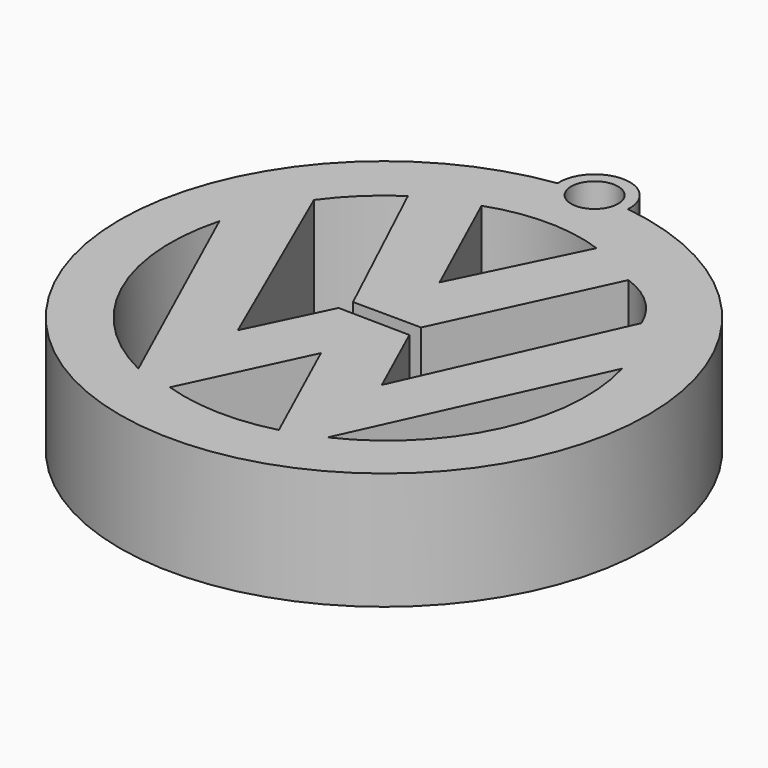
from build123d import *

# Parameters (mm, degrees)
F0_R     = 2
F1_DEPTH = 10


with BuildPart() as f1:
    # F0 (on Top) → F1 (new body)
    with BuildSketch(Plane.XY):
        with BuildLine():
            ThreePointArc((2.993815, 22.500718), (-0.007472, 25.693253), (-2.992818, 22.485807))
            ThreePointArc((-2.992818, 22.485807), (0.112082, -22.306598), (2.993815, 22.500718))
        make_face()
        with BuildLine():
            ThreePointArc((4.73323, -16.847746), (-0.037027, -17.396128), (-4.767835, -16.57422))
            Line((-4.767835, -16.57422), (0, -6.451098))
            Line((0, -6.451098), (4.73323, -16.847746))
        make_face(mode=Mode.SUBTRACT)
        with BuildLine():
            ThreePointArc((-8.082343, -15.787), (-16.20146, -7.439435), (-17.145447, 4.167062))
            Line((-17.145447, 4.167062), (-8.082343, -15.787))
        make_face(mode=Mode.SUBTRACT)
        with BuildLine():
            ThreePointArc((17.03636, 4.312176), (16.15052, -7.343834), (7.934009, -15.658654))
            Line((7.934009, -15.658654), (17.03636, 4.312176))
        make_face(mode=Mode.SUBTRACT)
        with BuildLine():
            ThreePointArc((-14.148536, 10.488077), (-12.081026, 12.866727), (-9.620003, 14.835468))
            Line((-9.620003, 14.835468), (-2.931775, 0.630309))
            Line((-2.931775, 0.630309), (2.896172, 0.597561))
            Line((2.896172, 0.597561), (9.397594, 14.539215))
            ThreePointArc((9.397594, 14.539215), (12.137775, 12.880766), (13.956957, 10.244554))
            Line((13.956957, 10.244554), (6.02724, -7.503525))
            Line((6.02724, -7.503525), (2.961416, -0.737735))
            Line((2.961416, -0.737735), (-3.147156, -0.639349))
            Line((-3.147156, -0.639349), (-6.376392, -7.329028))
            Line((-6.376392, -7.329028), (-14.148536, 10.488077))
        make_face(mode=Mode.SUBTRACT)
        with BuildLine():
            ThreePointArc((-4.918207, 16.794679), (-0.024189, 17.654427), (4.872167, 16.808093))
            Line((4.872167, 16.808093), (-0.203802, 6.43938))
            Line((-0.203802, 6.43938), (-4.918207, 16.794679))
        make_face(mode=Mode.SUBTRACT)
        with Locations((0, 22.693262)):
            Circle(F0_R, mode=Mode.SUBTRACT)
    extrude(amount=F1_DEPTH)


solid = f1.part
